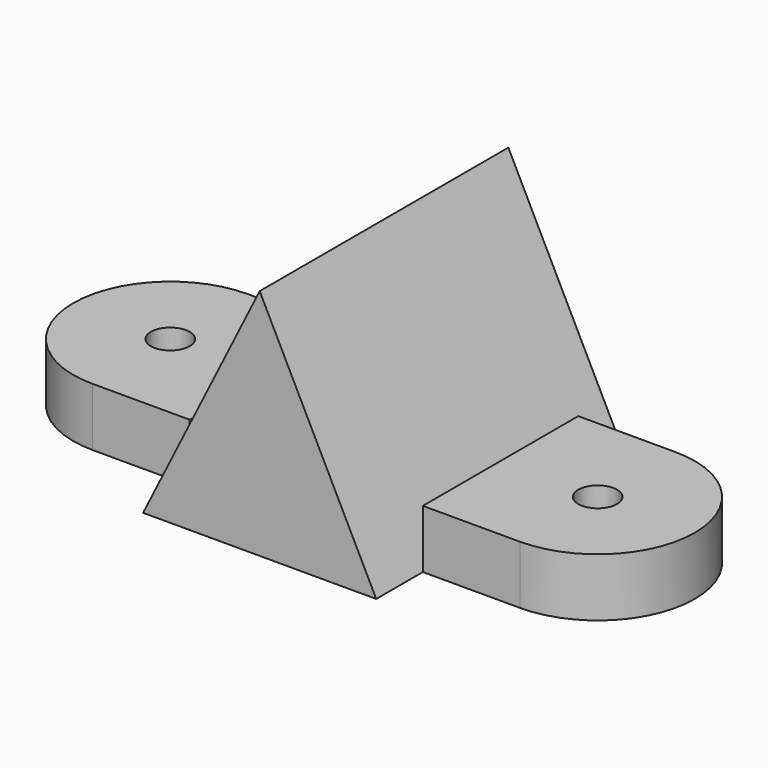
from build123d import *

# Parameters (mm, degrees)
F0_R      = 5
F1_DEPTH  = 60
F1_FACE_R = 5
F2_DEPTH  = 45
F3_W      = 60
F3_H      = 80
F4_DEPTH  = 45
F6_DEPTH  = 80


with BuildPart() as f1:
    # F0 (on Top) → F1 (new body)
    with BuildSketch(Plane.XY):
        with BuildLine():
            Line((-30, -25), (-30, 0))
            Line((-30, 0), (-30, 25))
            Line((-30, 25), (-55, 25))
            ThreePointArc((-55, 25), (-80, 0), (-55, -25))
            Line((-55, -25), (-30, -25))
        make_face()
        with Locations((-55, 0)):
            Circle(F0_R, mode=Mode.SUBTRACT)
        Polygon((-30, 25), (-30, 0), (-30, -25), (-30, -40), (0, -40), (30, -40), (30, -25), (30, 25), (30, 40), (0, 40), (-30, 40), align=None)
        with BuildLine():
            Line((55, 25), (30, 25))
            Line((30, 25), (30, -25))
            Line((30, -25), (55, -25))
            ThreePointArc((55, -25), (80, 0), (55, 25))
        make_face()
        with Locations((55, 0)):
            Circle(F0_R, mode=Mode.SUBTRACT)
    extrude(amount=F1_DEPTH)

    # F1_face (on face) → F2 (cut)
    with BuildSketch(Plane.XY.offset(60)):
        with BuildLine():
            Line((-30, -25), (-30, -40))
            Line((-30, -40), (30, -40))
            Line((30, -40), (30, -25))
            Line((30, -25), (55, -25))
            ThreePointArc((55, -25), (80, 0), (55, 25))
            Line((55, 25), (30, 25))
            Line((30, 25), (30, 40))
            Line((30, 40), (-30, 40))
            Line((-30, 40), (-30, 25))
            Line((-30, 25), (-55, 25))
            ThreePointArc((-55, 25), (-80, 0), (-55, -25))
            Line((-55, -25), (-30, -25))
        make_face()
        with Locations((-55, 0)):
            Circle(F1_FACE_R, mode=Mode.SUBTRACT)
        with Locations((55, 0)):
            Circle(F1_FACE_R, mode=Mode.SUBTRACT)
    extrude(amount=-F2_DEPTH, mode=Mode.SUBTRACT)

    # F3 (on face) → F4 (join)
    with BuildSketch(Plane.XY.offset(15)):
        Rectangle(F3_W, F3_H)
    extrude(amount=F4_DEPTH)

    # F5 (on face) → F6 (cut)
    with BuildSketch(Plane.XZ.offset(40)):
        Polygon((-30, 60), (-30, 0), (0, 60), align=None)
        Polygon((30, 60), (0, 60), (30, 0), align=None)
    extrude(amount=-F6_DEPTH, mode=Mode.SUBTRACT)


solid = f1.part
